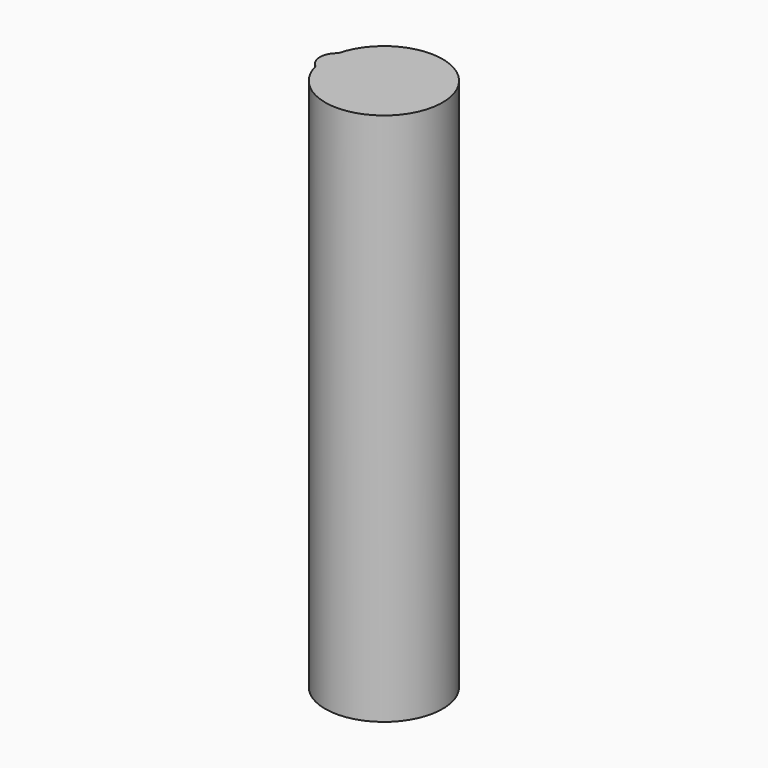
from build123d import *

# Parameters (mm, degrees)
CYLINDER008_R     = 0.5
CYLINDER008_DEPTH = 15
CYLINDER005_R     = 1.65
CYLINDER005_DEPTH = 15


with BuildPart() as cylinder008:
    # Cylinder008 → Cylinder008 (new body)
    with BuildSketch(Plane(origin=(-1.3, 14.5, 0), x_dir=(1, 0, 0), z_dir=(0, 0, 1))):
        Circle(CYLINDER008_R)
    extrude(amount=CYLINDER008_DEPTH)


with BuildPart() as fusion006002008002:
    # Cylinder005 → Cylinder005 (new body)
    with BuildSketch(Plane(origin=(0, 14.5, 0), x_dir=(1, 0, 0), z_dir=(0, 0, 1))):
        Circle(CYLINDER005_R)
    extrude(amount=CYLINDER005_DEPTH)

    # Fusion006002008002: union Cylinder008
    add(cylinder008.part)


solid = fusion006002008002.part
